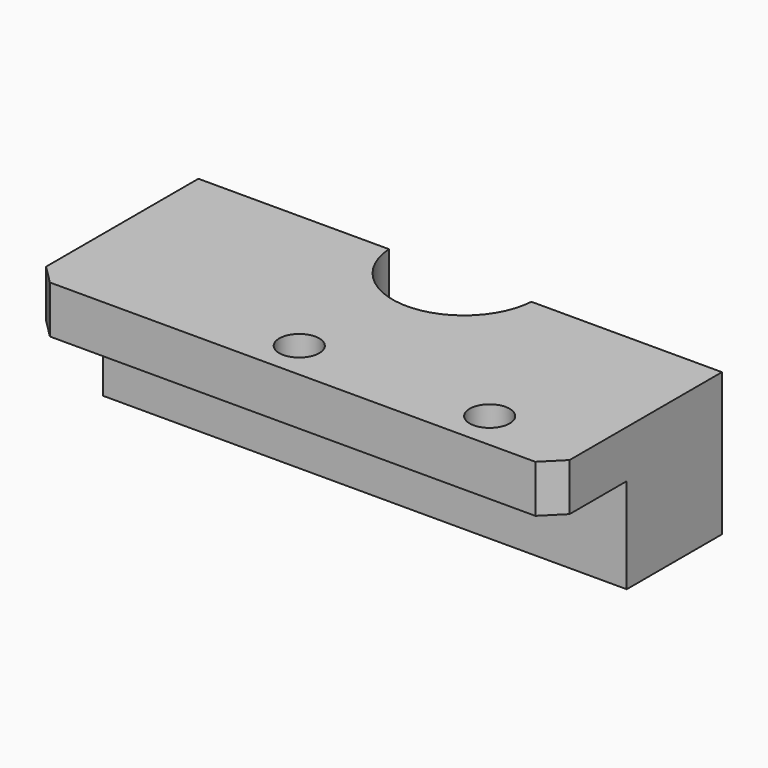
from build123d import *

# Parameters (mm, degrees)
F1_DEPTH = 55
F3_DEPTH = 60
F5_D     = 4.2
F7_D     = 5
F8_SIZE2 = 2
F8_SIZE  = 2


with BuildPart() as f1:
    # F0 (on Right) → F1 (new body)
    with BuildSketch(Plane.YZ):
        Polygon((-12.5, 0), (0, 0), (0, 15), (-22, 15), (-22, 10), (-12.5, 10), align=None)
        Polygon((-12.5, 0), (0, 0), (0, 15), (-22, 15), (-22, 10), (-12.5, 10), align=None)
    extrude(amount=F1_DEPTH)

    # F2 (on face) → F3 (cut)
    with BuildSketch(Plane.XY.offset(15)):
        with BuildLine():
            Line((34.9833147735, 0), (20.0166852265, 0))
            ThreePointArc((20.0166852265, 0), (27.5, -7), (34.9833147735, 0))
        make_face()
        with BuildLine():
            ThreePointArc((34.9833147735, 0), (34.9958275328, 0.2498608403), (35, 0.5))
            ThreePointArc((35, 0.5), (27.2498608403, 7.9958275328), (20.0166852265, 0))
            Line((20.0166852265, 0), (34.9833147735, 0))
        make_face()
    extrude(amount=-F3_DEPTH, mode=Mode.SUBTRACT)

    # F5 (through all)
    with Locations(Plane.XY.offset(15)):
        with Locations((25, -18), (45, -18)):
            Hole(F5_D / 2)

    # F7 (through all)
    with Locations(Plane(origin=(0, 0, 0), x_dir=(-1, 0, 0), z_dir=(0, 1, 0))):
        with Locations((-10.413300395, 7.5), (-45.413300395, 7.5)):
            Hole(F7_D / 2)

    # F8
    f8_edges = [f1.edges().sort_by_distance(p)[0] for p in [
        (0, -22, 12.5),
        (55, -22, 12.5),
    ]]
    chamfer(f8_edges, length=F8_SIZE, length2=F8_SIZE2)


solid = f1.part
